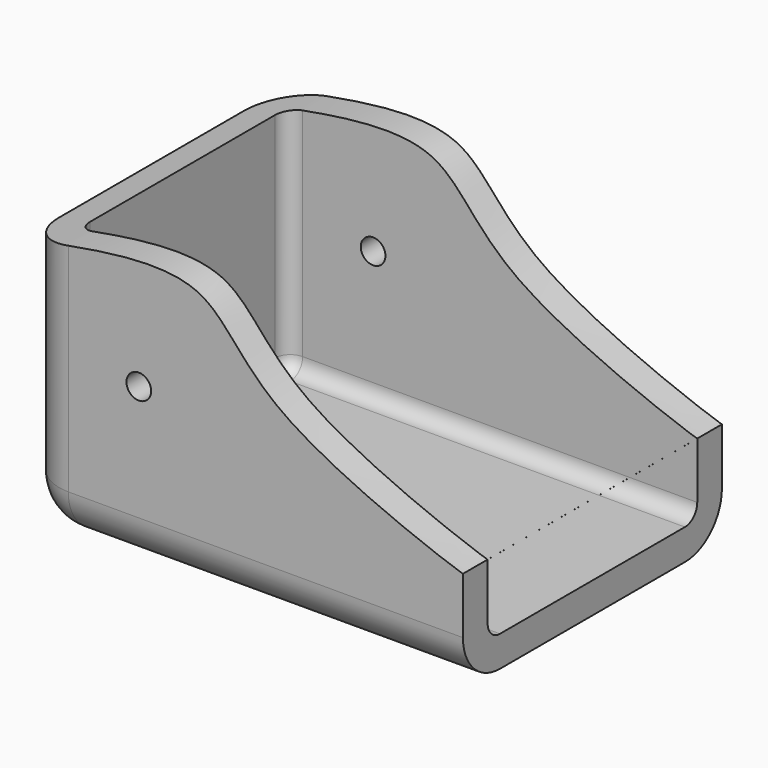
from build123d import *

# Parameters (mm, degrees)
F0_W      = 181.1920106411
F0_H      = 121.440127492
F1_W      = 181.1920106411
F1_H      = 121.440127492
F2_DEPTH  = 82
F5_DEPTH  = 209
F8_DEPTH  = 105
F9_R      = 15
F10_T     = -10
F11_R     = 4
F12_DEPTH = 268.2


with BuildPart() as f2:
    # F0 (on Front) + F1 (on face) → F2 (new body)
    with BuildSketch(Plane.XZ):
        with Locations((10.5488449335, -5.8489441872)):
            Rectangle(F0_W, F0_H)
    with BuildSketch(Plane.XZ):
        with Locations((10.5488449335, -5.8489441872)):
            Rectangle(F1_W, F1_H)
    extrude(amount=F2_DEPTH)

    # F4 (on face) → F5 (join)
    with BuildSketch(Plane.XZ.offset(82)):
        with BuildLine():
            Line((-80.047160387, 54.8711195588), (-80.047160387, 12.102574383))
            add(Edge.make_bspline(
                [(-80.047160387, 12.102574383), (-70.4971089469, 11.9061403052), (-39.6127942717, 12.7311162872), (29.479142249, 30.8370307532), (60.6292976536, 2.7028222501), (91.9197032948, -7.0131442177), (101.1448502541, -8.4251729885)],
                knots=[0.0791598256, 0.0791598256, 0.0791598256, 0.0791598256, 0.1972348943, 0.4390023152, 0.6391301786, 0.7370696165, 0.7370696165, 0.7370696165, 0.7370696165], degree=3))
            Line((101.1448502541, -8.4251729885), (101.1448502541, 54.8711195588))
            Line((101.1448502541, 54.8711195588), (-80.047160387, 54.8711195588))
        make_face()
    extrude(amount=-F5_DEPTH)


with BuildPart() as f8:
    # F7 (on face) → F8 (new body)
    with BuildSketch(Plane.XZ.offset(82)):
        with BuildLine():
            Line((-56.2542788684, 26.9644837826), (-56.2542788684, -55.3955957294))
            Line((-56.2542788684, -55.3955957294), (86.770221591, -55.3955957294))
            Line((86.770221591, -55.3955957294), (86.770221591, -22.1638642251))
            add(Edge.make_bspline(
                [(-56.2542788684, 26.9644837826), (-34.2329421874, 31.4233907779), (5.9810755531, 39.5659739285), (17.8659842809, 1.2854122459), (86.4666290083, -22.3115618205), (86.770221591, -22.1638642251)],
                knots=[0, 0, 0, 0, 0.3440918363, 0.6283594593, 0.9956406258, 0.9956406258, 0.9956406258, 0.9956406258], degree=3))
        make_face()
    extrude(amount=F8_DEPTH)

    # F9
    f9_edges = [f8.edges().sort_by_distance(p)[0] for p in [
        (15.257971, -82, -55.395596),
        (-56.254279, -134.5, -55.395596),
        (-56.254279, -82, -14.215556),
        (-56.254279, -187, -14.215556),
        (15.257971, -187, -55.395596),
    ]]
    fillet(f9_edges, radius=F9_R)

    # F10
    f10_openings = [f8.faces().sort_by_distance(p)[0] for p in [
        (13.383093, -134.5, 18.937689),
        (86.770222, -134.5, -38.402148),
    ]]
    offset(amount=F10_T, openings=f10_openings, kind=Kind.INTERSECTION)

    # F11 (on Front) → F12 (cut)
    with BuildSketch(Plane.XZ):
        with Locations((-18.3865651488, -2.8909693938)):
            Circle(F11_R)
    extrude(amount=F12_DEPTH, mode=Mode.SUBTRACT)


with BuildPart() as f8b:
    # F7 (on face) → F8, piece 2 (new body)
    with BuildSketch(Plane.XZ.offset(82)):
        with BuildLine():
            Line((86.770221591, -22.154815495), (86.770221591, -22.1638642251))
            add(Edge.make_bspline(
                [(86.770221591, -22.1638642251), (86.7738250256, -22.1621111565), (86.7720233083, -22.1584633258), (86.770221591, -22.154815495)],
                knots=[0.9956406258, 0.9956406258, 0.9956406258, 0.9956406258, 1, 1, 1, 1], degree=3))
        make_face()
    extrude(amount=F8_DEPTH)


solid = Compound([f8.part, f8b.part])
